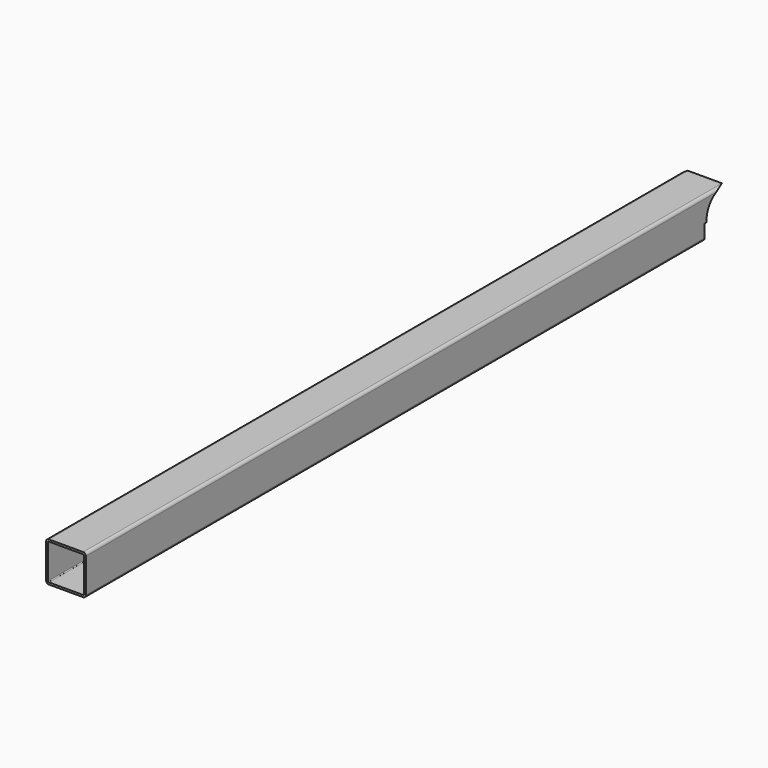
from build123d import *

# Parameters (mm, degrees)
F1_DEPTH = 1003.5
F3_DEPTH = 100.001


with BuildPart() as f1:
    # F0 (on Front) → F1 (new body, symmetric)
    with BuildSketch(Plane.XZ):
        with BuildLine():
            ThreePointArc((50, 43), (47.9497474683, 47.9497474683), (43, 50))
            Line((43, 50), (-43, 50))
            ThreePointArc((-43, 50), (-47.9497474683, 47.9497474683), (-50, 43))
            Line((-50, 43), (-50, -43))
            ThreePointArc((-50, -43), (-47.9497474683, -47.9497474683), (-43, -50))
            Line((-43, -50), (43, -50))
            ThreePointArc((43, -50), (47.9497474683, -47.9497474683), (50, -43))
            Line((50, -43), (50, 43))
        make_face()
        with BuildLine():
            ThreePointArc((45, -43), (44.4142135624, -44.4142135624), (43, -45))
            Line((43, -45), (-43, -45))
            ThreePointArc((-43, -45), (-44.4142135624, -44.4142135624), (-45, -43))
            Line((-45, -43), (-45, 43))
            ThreePointArc((-45, 43), (-44.4142135624, 44.4142135624), (-43, 45))
            Line((-43, 45), (43, 45))
            ThreePointArc((43, 45), (44.4142135624, 44.4142135624), (45, 43))
            Line((45, 43), (45, -43))
        make_face(mode=Mode.SUBTRACT)
    extrude(amount=F1_DEPTH, both=True)

    # F2 (on face) → F3 (cut, through all)
    with BuildSketch(Plane.YZ.offset(50)):
        with BuildLine():
            Line((940.35, -64.3), (1003.5, -64.3))
            ThreePointArc((1003.5, -64.3), (1042.4162562434, 34.7026880857), (946.5008771997, -11.3))
            Line((946.5008771997, -11.3), (940.35, -11.3))
            Line((940.35, -11.3), (940.35, -64.3))
        make_face()
    extrude(amount=-F3_DEPTH, mode=Mode.SUBTRACT)


solid = f1.part
